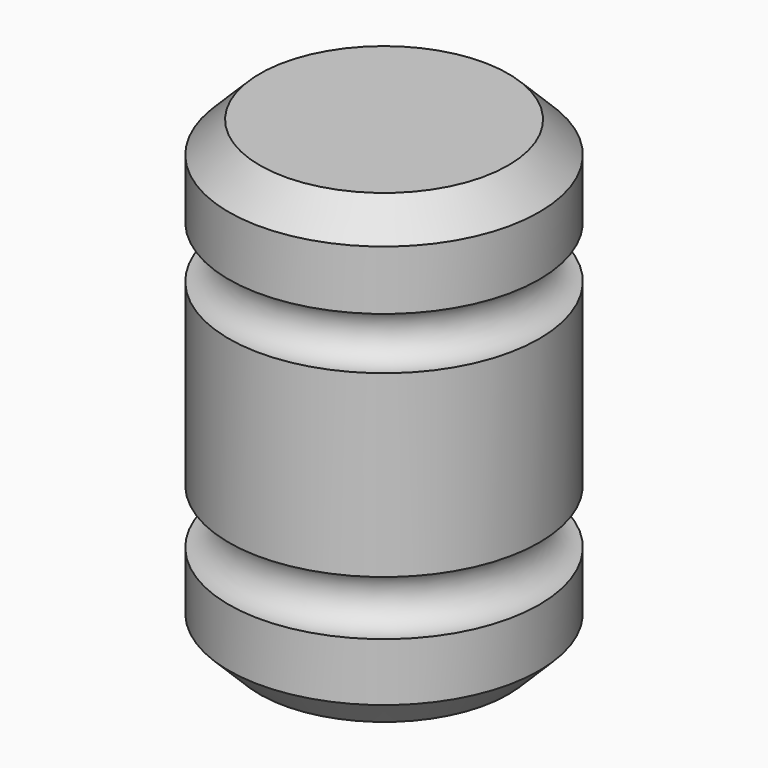
from build123d import *

# Parameters (mm, degrees)
F2_SIZE = 5.08


with BuildPart() as f1:
    # F0 (on Front) → F1 (revolve)
    with BuildSketch(Plane.XZ):
        with BuildLine():
            Line((-25.4, 0), (0, 0))
            Line((0, 0), (0, 14.575788))
            ThreePointArc((0, 14.575788), (-4.474212, 19.05), (0, 23.524212))
            Line((0, 23.524212), (0, 52.880125))
            ThreePointArc((0, 52.880125), (-4.269875, 57.15), (0, 61.419875))
            Line((0, 61.419875), (0, 76.2))
            Line((0, 76.2), (-25.4, 76.2))
            Line((-25.4, 76.2), (-25.4, 0))
        make_face()
    revolve(axis=Axis((-25.4, 0, 38.1), (0, 0, 1)))

    # F2
    f2_edges = [f1.edges().sort_by_distance(p)[0] for p in [
        (-50.8, 0, 0),
        (-50.8, 0, 76.2),
    ]]
    chamfer(f2_edges, length=F2_SIZE)


solid = f1.part
